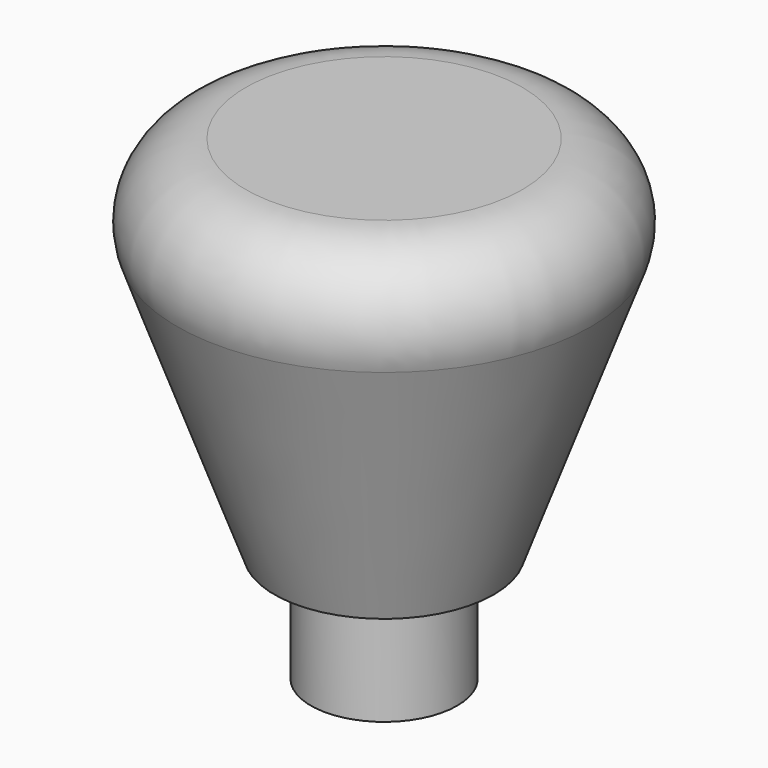
from build123d import *

# Parameters (mm, degrees)
F0_R     = 3
F1_DEPTH = 10
F1_TAPER = -20
F2_R     = 2
F3_R     = 2
F4_DEPTH = 3


with BuildPart() as f1:
    # F0 (on Top) → F1 (new body)
    with BuildSketch(Plane.XY):
        Circle(F0_R)
    extrude(amount=F1_DEPTH, taper=F1_TAPER)

    # F2
    f2_edges = [f1.edges().sort_by_distance(p)[0] for p in [
        (-6.639702, 0, 10),
    ]]
    fillet(f2_edges, radius=F2_R)

    # F3 (on face) → F4 (join)
    with BuildSketch(Plane(origin=(0, 0, 0), x_dir=(1, 0, 0), z_dir=(0, 0, -1))):
        Circle(F3_R)
    extrude(amount=F4_DEPTH)


solid = f1.part
